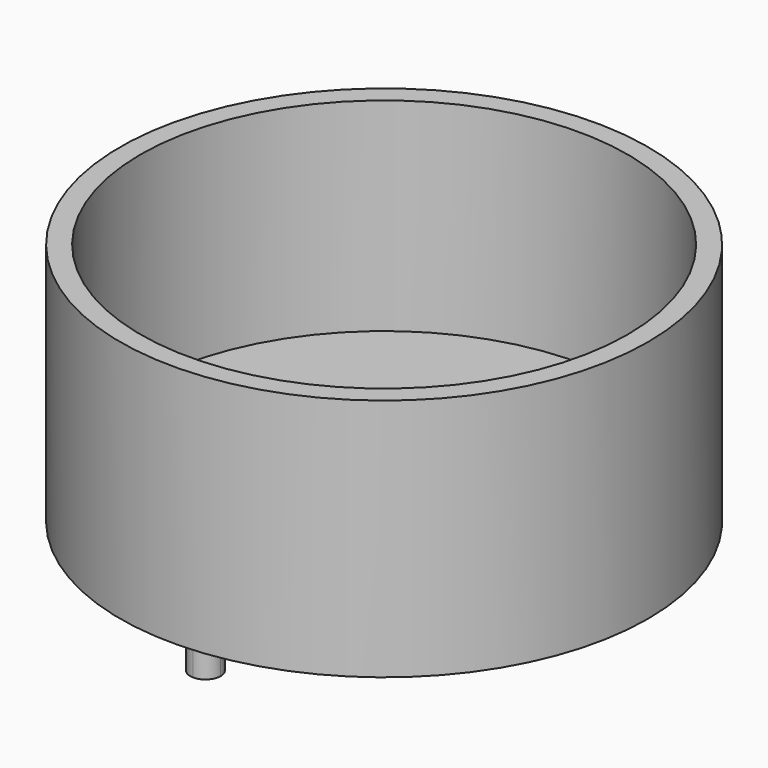
from build123d import *

# Parameters (mm, degrees)
F0_R     = 33.02
F0_R_2   = 3.175
F1_DEPTH = 5.08
F2_R     = 33.02
F2_R_2   = 30.48
F3_DEPTH = 25.4
F5_DEPTH = 5.08


with BuildPart() as f1:
    # F0 (on Top) → F1 (new body)
    with BuildSketch(Plane.XY):
        Circle(F0_R)
        Circle(F0_R_2, mode=Mode.SUBTRACT)
    extrude(amount=F1_DEPTH)

    # F2 (on face) → F3 (join)
    with BuildSketch(Plane.XY.offset(5.08)):
        Circle(F2_R)
        Circle(F2_R_2, mode=Mode.SUBTRACT)
    extrude(amount=F3_DEPTH)

    # F4 (on face) → F5 (join)
    with BuildSketch(Plane(origin=(0, 0, 0), x_dir=(1, 0, 0), z_dir=(0, 0, -1))):
        with BuildLine():
            Line((0, 29.845), (0, 26.035))
            ThreePointArc((0, 26.035), (1.347038, 26.592962), (1.905, 27.94))
            ThreePointArc((1.905, 27.94), (1.347038, 29.287038), (0, 29.845))
        make_face()
        with BuildLine():
            ThreePointArc((0, 29.845), (-1.905, 27.94), (0, 26.035))
            Line((0, 26.035), (0, 29.845))
        make_face()
    extrude(amount=F5_DEPTH)


solid = f1.part
